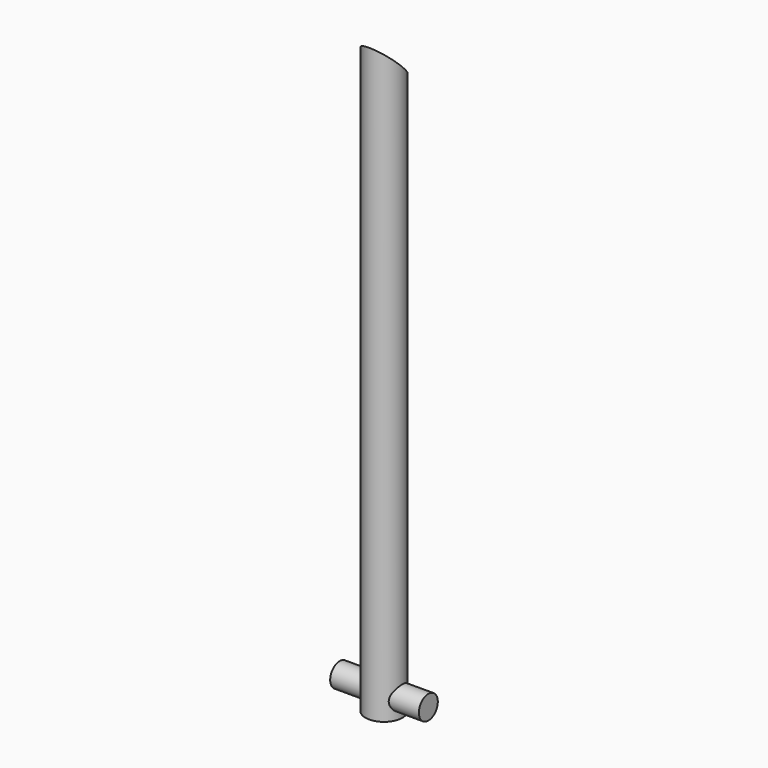
from build123d import *

# Parameters (mm, degrees)
F0_R          = 12.5
F1_DEPTH      = 400
F2_R          = 8
F3_DEPTH      = 30
F5_DEPTH      = 30.0010001
F5_DEPTH_BACK = 30.0010001


with BuildPart() as f1:
    # F0 (on Top) → F1 (new body)
    with BuildSketch(Plane.XY):
        Circle(F0_R)
    extrude(amount=F1_DEPTH)

    # F2 (on Right) → F3 (join, symmetric)
    with BuildSketch(Plane.YZ):
        with Locations((0, 12)):
            Circle(F2_R)
    extrude(amount=F3_DEPTH, both=True)

    # F4 (on Right) → F5 (cut, two sides)
    with BuildSketch(Plane.YZ) as f5_sk:
        Polygon((12.5, 400), (-12.5, 400), (12.5, 375), align=None)
    extrude(amount=-F5_DEPTH, mode=Mode.SUBTRACT)
    extrude(f5_sk.sketch, amount=F5_DEPTH_BACK, mode=Mode.SUBTRACT)


solid = f1.part
